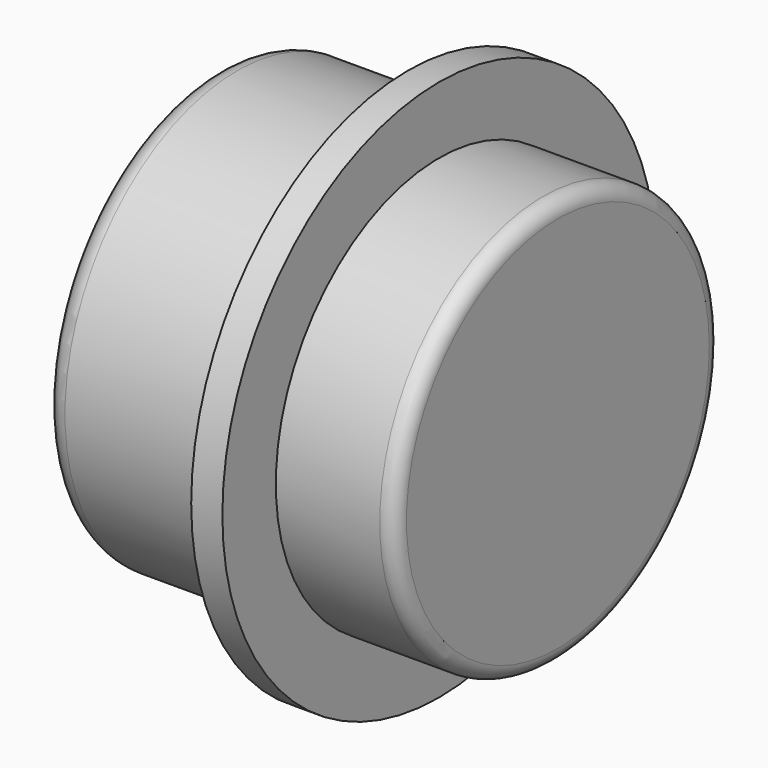
from build123d import *

# Parameters (mm, degrees)
SKETCH013_R     = 3.65
PAD006_DEPTH    = 4.62
SKETCH014_R     = 2.25
POCKET007_DEPTH = 2.2
SKETCH015_R     = 4.5
SKETCH015_R_2   = 2.9
POCKET008_DEPTH = 2.6
SKETCH016_R     = 4.5
SKETCH016_R_2   = 2.75
POCKET009_DEPTH = 1.6
FILLET004_R     = 0.2
FILLET005_R     = 0.3
FILLET006_R     = 0.3


with BuildPart() as part:
    # Sketch013 → Pad006 (new body)
    with BuildSketch(Plane.YZ):
        Circle(SKETCH013_R)
    extrude(amount=PAD006_DEPTH)

    # Sketch014 → Pocket007 (cut)
    with BuildSketch(Plane.YZ):
        Circle(SKETCH014_R)
    extrude(amount=POCKET007_DEPTH, mode=Mode.SUBTRACT)

    # Sketch015 → Pocket008 (cut)
    with BuildSketch(Plane.YZ):
        Circle(SKETCH015_R)
        Circle(SKETCH015_R_2, mode=Mode.SUBTRACT)
    extrude(amount=POCKET008_DEPTH, mode=Mode.SUBTRACT)

    # Sketch016 (on Face3 of Pocket008) → Pocket009 (cut)
    with BuildSketch(Plane.YZ.offset(4.62)):
        Circle(SKETCH016_R)
        Circle(SKETCH016_R_2, mode=Mode.SUBTRACT)
    extrude(amount=-POCKET009_DEPTH, mode=Mode.SUBTRACT)

    # Fillet004
    fillet004_edges = [part.edges().sort_by_distance(p)[0] for p in [
        (4.62, -2.75, 0),
    ]]
    fillet(fillet004_edges, radius=FILLET004_R)

    # Fillet005
    fillet005_edges = [part.edges().sort_by_distance(p)[0] for p in [
        (0, -2.25, 0),
        (0, -2.9, 0),
    ]]
    fillet(fillet005_edges, radius=FILLET005_R)

    # Fillet006
    fillet006_edges = [part.edges().sort_by_distance(p)[0] for p in [
        (2.2, -2.25, 0),
    ]]
    fillet(fillet006_edges, radius=FILLET006_R)


with BuildPart() as part_1:
    # Body002 placement: moved
    add(part.part.moved(Location((22, 6.35, 11.5))))


solid = part_1.part
